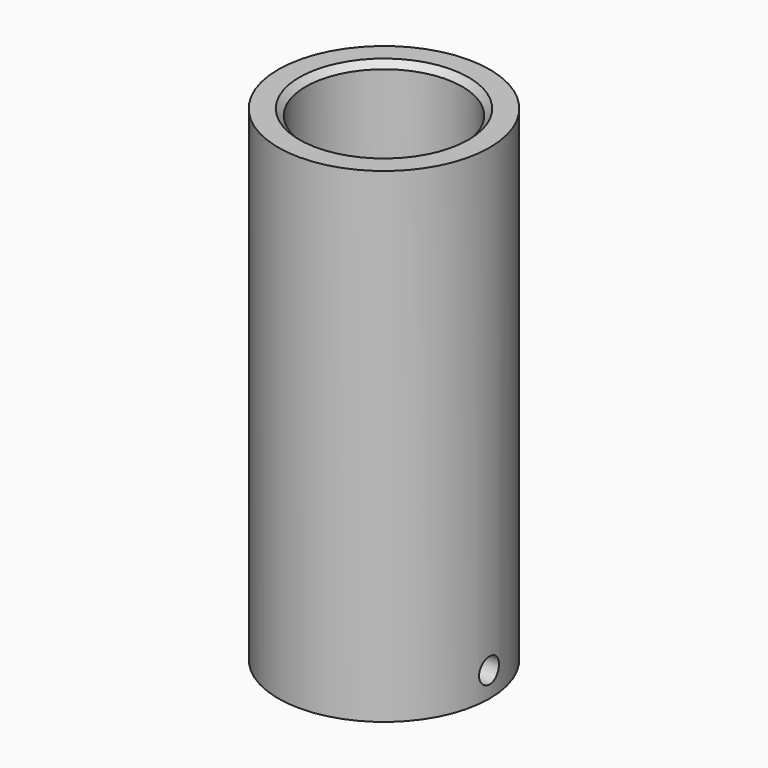
from build123d import *

# Parameters (mm, degrees)
F0_R      = 8.5
F1_DEPTH  = 2
F2_R      = 4
F3_DEPTH  = 20
F4_R      = 8.5
F4_R_2    = 6.3
F5_DEPTH  = 35
F6_SIZE   = 0.5
F7_SIZE   = 0.5
F8_R      = 2.5
F9_DEPTH  = 25
F10_R     = 1
F11_DEPTH = 12.5


with BuildPart() as f1:
    # F0 (on Top) → F1 (new body, symmetric)
    with BuildSketch(Plane.XY):
        Circle(F0_R)
    extrude(amount=F1_DEPTH, both=True)

    # F2 (on face) → F3 (join)
    with BuildSketch(Plane.XY.offset(2)):
        Circle(F2_R)
    extrude(amount=F3_DEPTH)

    # F4 (on face) → F5 (join)
    with BuildSketch(Plane.XY.offset(2)):
        Circle(F4_R)
        Circle(F4_R_2, mode=Mode.SUBTRACT)
    extrude(amount=F5_DEPTH)

    # F6
    f6_edges = [f1.edges().sort_by_distance(p)[0] for p in [
        (-4, 0, 22),
    ]]
    chamfer(f6_edges, length=F6_SIZE)

    # F7
    f7_edges = [f1.edges().sort_by_distance(p)[0] for p in [
        (-6.3, 0, 37),
    ]]
    chamfer(f7_edges, length=F7_SIZE)

    # F8 (on Top) → F9 (join)
    with BuildSketch(Plane.XY):
        Circle(F8_R)
    extrude(amount=F9_DEPTH)

    # F10 (on Right) → F11 (cut, symmetric)
    with BuildSketch(Plane.YZ):
        Circle(F10_R)
    extrude(amount=F11_DEPTH, both=True, mode=Mode.SUBTRACT)


solid = f1.part
